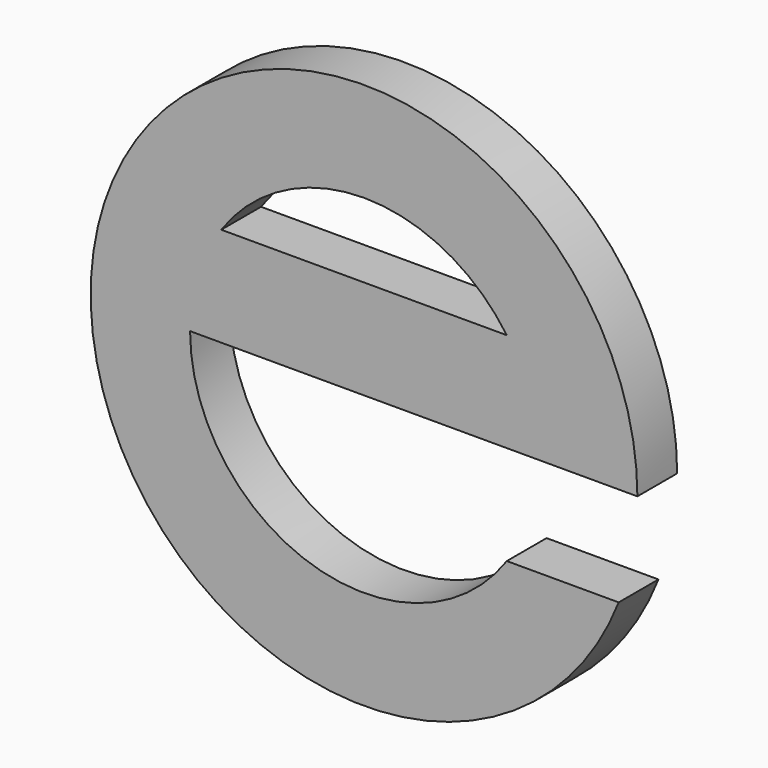
from build123d import *

# Parameters (mm, degrees)
F1_DEPTH = 25.4


with BuildPart() as f1:
    # F0 (on Front) → F1 (new body)
    with BuildSketch(Plane.XZ):
        with BuildLine():
            Line((88.9, 0), (139.7, 0))
            ThreePointArc((139.7, 0), (-137.288251, 25.846203), (130.136275, -50.8))
            Line((130.136275, -50.8), (72.955946, -50.8))
            ThreePointArc((72.955946, -50.8), (-26.621668, -84.82038), (-88.9, 0))
            Line((-88.9, 0), (88.9, 0))
        make_face()
        with BuildLine():
            ThreePointArc((-72.955946, 50.8), (0, 88.9), (72.955946, 50.8))
            Line((72.955946, 50.8), (-72.955946, 50.8))
        make_face(mode=Mode.SUBTRACT)
    extrude(amount=F1_DEPTH)


solid = f1.part
